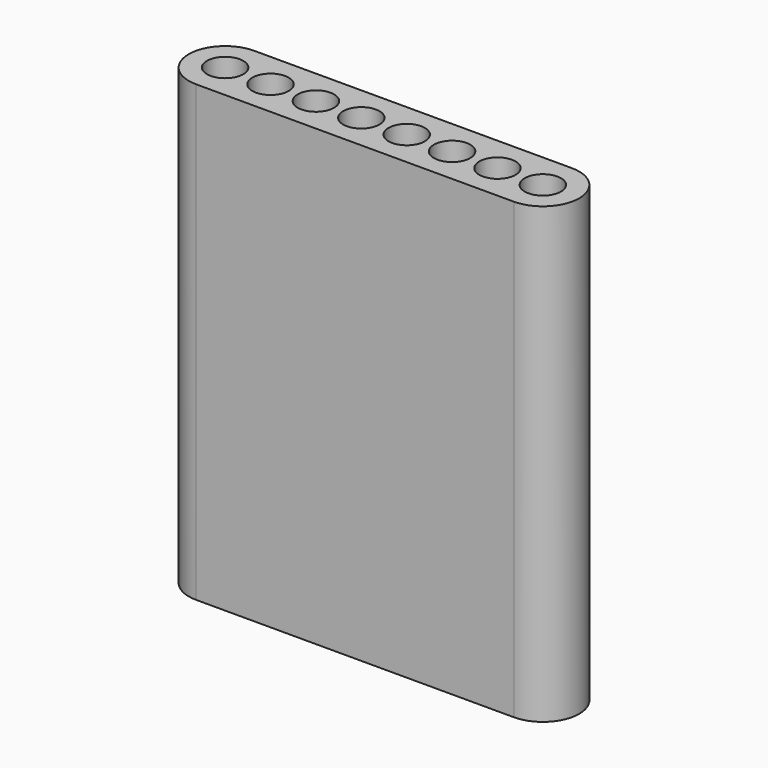
from build123d import *

# Parameters (mm, degrees)
F1_DEPTH = 25
F2_D     = 2


with BuildPart() as f1:
    # F0 (on Top) → F1 (new body)
    with BuildSketch(Plane.XY):
        with BuildLine():
            ThreePointArc((0, 11.6000010935), (-2, 9.6000010935), (0, 7.6000010935))
            Line((0, 7.6000010935), (17.5, 7.6000010935))
            ThreePointArc((17.5, 7.6000010935), (19.5, 9.6000010935), (17.5, 11.6000010935))
            Line((17.5, 11.6000010935), (0, 11.6000010935))
        make_face()
    extrude(amount=F1_DEPTH)

    # F2 (through all)
    with Locations(Plane(origin=(0, 0, 0), x_dir=(1, 0, 0), z_dir=(0, 0, -1))):
        with Locations((0, -9.6000010935), (2.5, -9.6000010935), (5, -9.6000010935), (7.5, -9.6000010935), (10, -9.6000010935), (12.5, -9.6000010935), (15, -9.6000010935), (17.5, -9.6000010935)):
            Hole(F2_D / 2)


solid = f1.part
